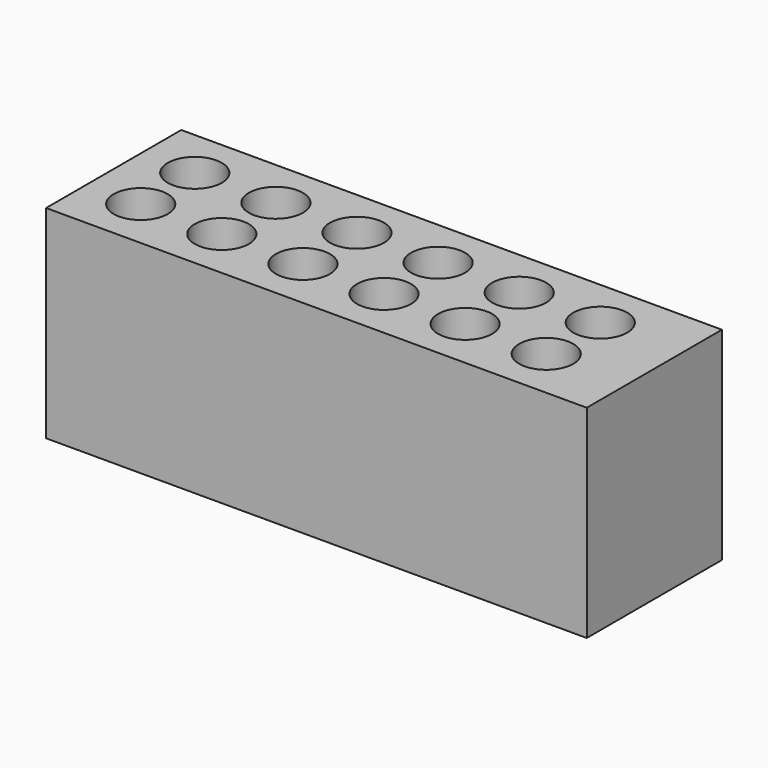
from build123d import *

# Parameters (mm, degrees)
F0_W     = 80
F0_H     = 30
F1_DEPTH = 25
F3_D     = 8


with BuildPart() as f1:
    # F0 (on Front) → F1 (new body)
    with BuildSketch(Plane.XZ):
        Rectangle(F0_W, F0_H)
    extrude(amount=F1_DEPTH)

    # F3 (through all)
    with Locations(Plane(origin=(0, 0, -15), x_dir=(1, 0, 0), z_dir=(0, 0, -1))):
        with Locations((-32.076024, 17.399574), (-20.076024, 17.399574), (-8.076024, 17.399574), (3.923976, 17.399574), (15.923976, 17.399574), (27.923976, 17.399574), (27.923976, 7.399574), (15.923976, 7.399574), (3.923976, 7.399574), (-20.076024, 7.399574), (-32.076024, 7.399574), (-8.076024, 7.399574)):
            Hole(F3_D / 2)


solid = f1.part
